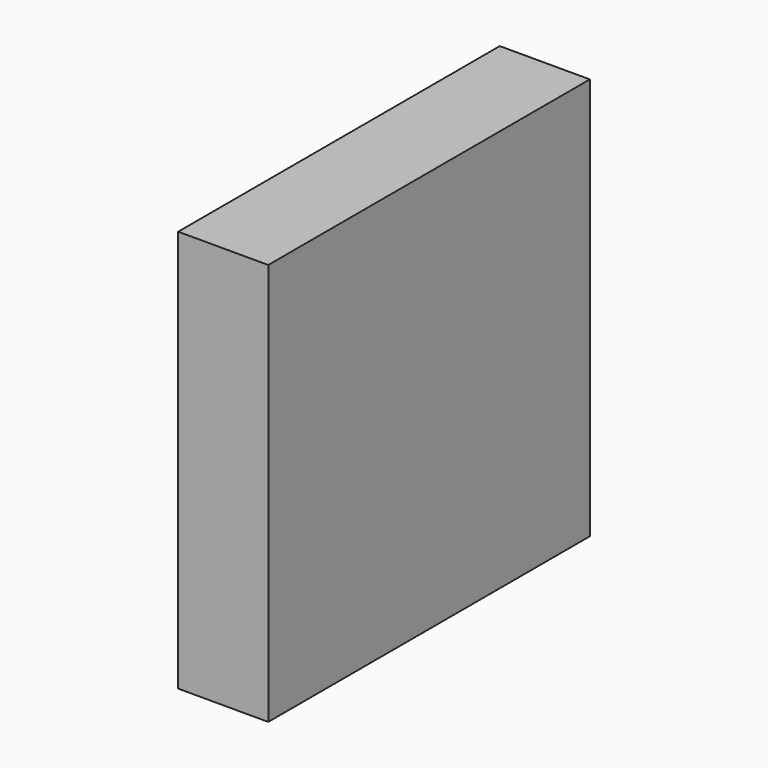
from build123d import *

# Parameters (mm, degrees)
SKETCH003_W = 2.241769
SKETCH003_H = 10
PAD_DEPTH   = 10.0076


with BuildPart() as part:
    # Sketch003 → Pad (new body)
    with BuildSketch(Plane.XY):
        with Locations((1.120884, 5)):
            Rectangle(SKETCH003_W, SKETCH003_H)
    extrude(amount=PAD_DEPTH)


solid = part.part
